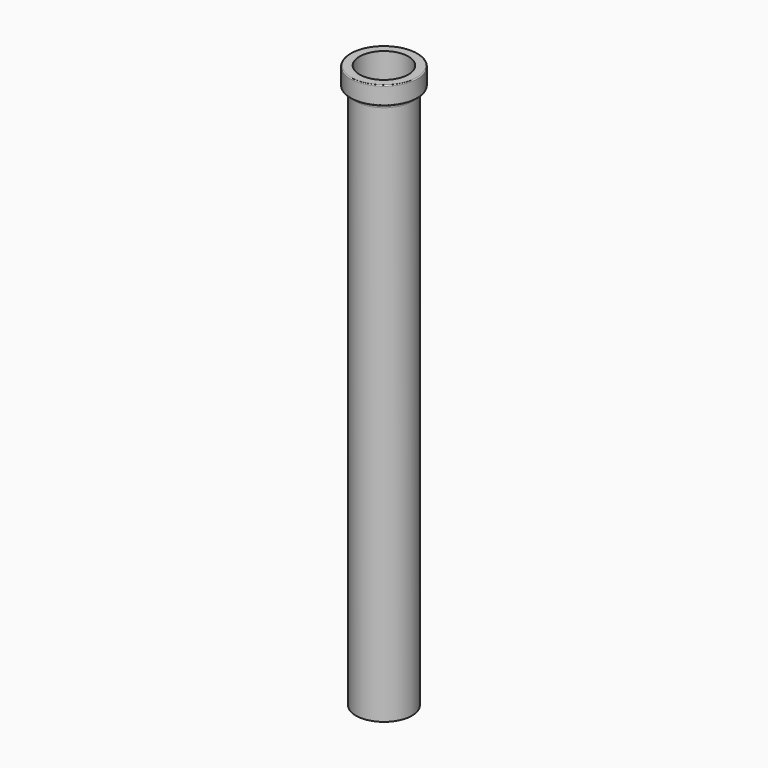
from build123d import *


with BuildPart() as f1:
    # F0 (on Front) → F1 (revolve)
    with BuildSketch(Plane.XZ):
        with BuildLine():
            Line((-15.45, 0), (-13.45, 0))
            Line((-13.45, 0), (-13.45, 300))
            Line((-13.45, 300), (-13.45, 310))
            Line((-13.45, 310), (-17.95, 310))
            ThreePointArc((-17.95, 310), (-18.303553, 309.853553), (-18.45, 309.5))
            Line((-18.45, 309.5), (-18.45, 300.5))
            ThreePointArc((-18.45, 300.5), (-18.303553, 300.146447), (-17.95, 300))
            ThreePointArc((-17.95, 300), (-16.182233, 299.267767), (-15.45, 297.5))
            Line((-15.45, 297.5), (-15.45, 0))
        make_face()
    revolve(axis=Axis((0, 0, 42.6245), (0, 0, 1)))


solid = f1.part
